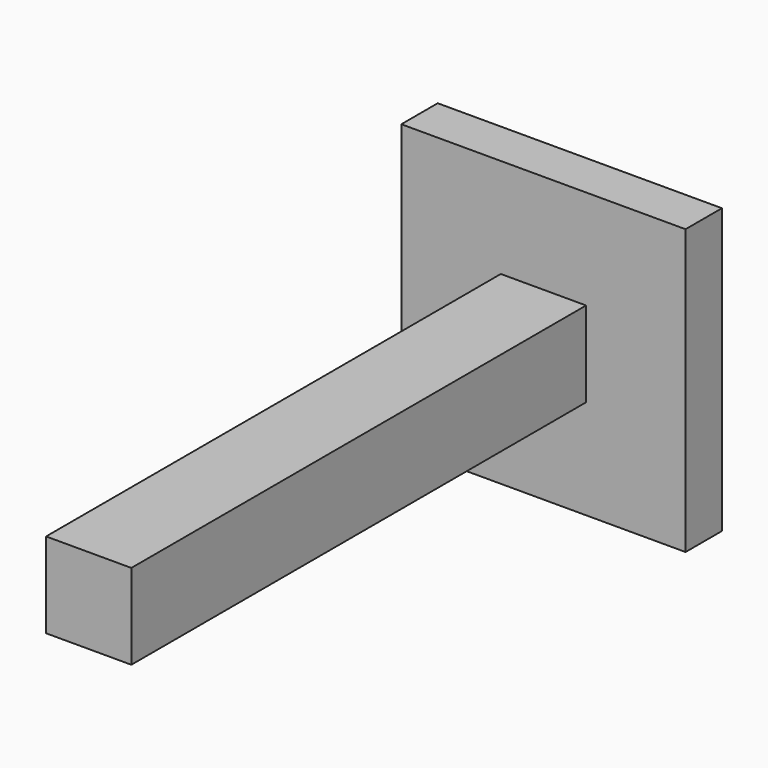
from build123d import *

# Parameters (mm, degrees)
F0_W     = 50
F0_H     = 50
F0_R     = 4.25
F1_DEPTH = 8
F2_R     = 22
F3_DEPTH = 5
F4_W     = 15
F4_H     = 15
F5_DEPTH = 100


with BuildPart() as f1:
    # F0 (on Front) → F1 (new body)
    with BuildSketch(Plane.XZ):
        Rectangle(F0_W, F0_H)
        Circle(F0_R, mode=Mode.SUBTRACT)
    extrude(amount=F1_DEPTH)

    # F2 (on Front) → F3 (cut)
    with BuildSketch(Plane.XZ):
        Circle(F2_R)
    extrude(amount=F3_DEPTH, mode=Mode.SUBTRACT)

    # F4 (on face) → F5 (join)
    with BuildSketch(Plane.XZ.offset(8)):
        Rectangle(F4_W, F4_H)
    extrude(amount=F5_DEPTH)


solid = f1.part
